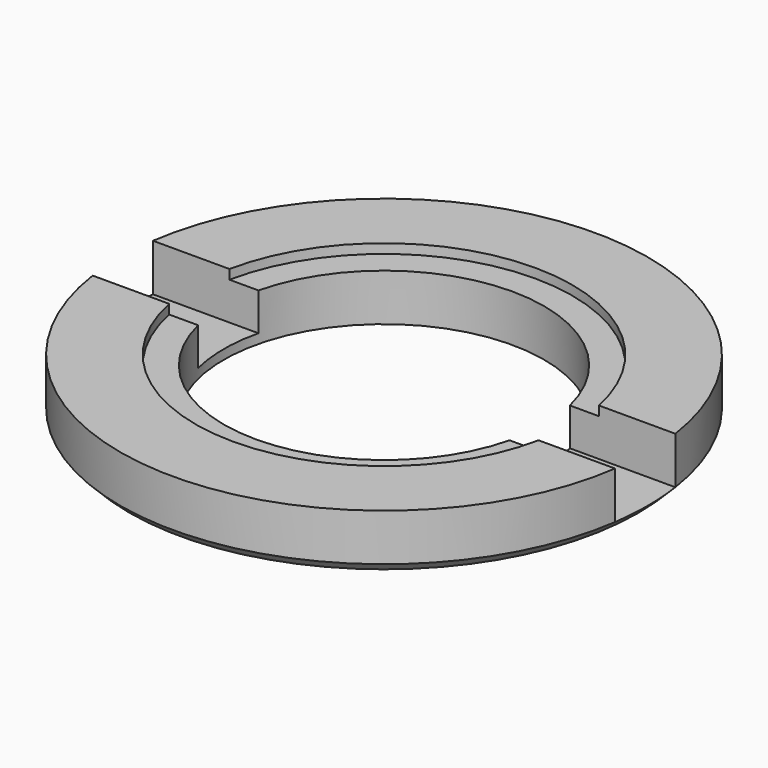
from build123d import *

# Parameters (mm, degrees)
F0_R     = 35.56
F1_DEPTH = 6.35
F2_R     = 35.56
F2_R_2   = 25.4
F3_DEPTH = 1.27
F4_SIZE  = 1.27
F5_R     = 21.59
F6_DEPTH = 25.4
F8_DEPTH = 6.35


with BuildPart() as f1:
    # F0 (on Top) → F1 (new body)
    with BuildSketch(Plane.XY):
        Circle(F0_R)
    extrude(amount=F1_DEPTH)

    # F2 (on face) → F3 (join)
    with BuildSketch(Plane.XY.offset(6.35)):
        Circle(F2_R)
        Circle(F2_R_2, mode=Mode.SUBTRACT)
    extrude(amount=F3_DEPTH)

    # F4
    f4_edges = [f1.edges().sort_by_distance(p)[0] for p in [
        (-35.56, 0, 0),
    ]]
    chamfer(f4_edges, length=F4_SIZE)

    # F5 (on face) → F6 (cut)
    with BuildSketch(Plane.XY.offset(6.35)):
        Circle(F5_R)
    extrude(amount=-F6_DEPTH, mode=Mode.SUBTRACT)

    # F7 (on face) → F8 (cut)
    with BuildSketch(Plane.XY.offset(7.62)):
        with BuildLine():
            ThreePointArc((-35.1952724098, 5.08), (-35.56, 0), (-35.1952724098, -5.08))
            Line((-35.1952724098, -5.08), (-24.8868157867, -5.08))
            ThreePointArc((-24.8868157867, -5.08), (-25.4, 0), (-24.8868157867, 5.08))
            Line((-24.8868157867, 5.08), (-35.1952724098, 5.08))
        make_face()
        with BuildLine():
            Line((-24.8868157867, -5.08), (24.8868157867, -5.08))
            ThreePointArc((24.8868157867, -5.08), (25.2713782863, -2.5529276349), (25.4, 0))
            ThreePointArc((25.4, 0), (25.2713782863, 2.5529276349), (24.8868157867, 5.08))
            Line((24.8868157867, 5.08), (-24.8868157867, 5.08))
            ThreePointArc((-24.8868157867, 5.08), (-25.4, 0), (-24.8868157867, -5.08))
        make_face()
        with BuildLine():
            Line((24.8868157867, -5.08), (35.1952724098, -5.08))
            ThreePointArc((35.1952724098, -5.08), (35.4687008988, -2.5465381509), (35.56, 0))
            ThreePointArc((35.56, 0), (35.4687008988, 2.5465381509), (35.1952724098, 5.08))
            Line((35.1952724098, 5.08), (24.8868157867, 5.08))
            ThreePointArc((24.8868157867, 5.08), (25.2713782863, 2.5529276349), (25.4, 0))
            ThreePointArc((25.4, 0), (25.2713782863, -2.5529276349), (24.8868157867, -5.08))
        make_face()
    extrude(amount=-F8_DEPTH, mode=Mode.SUBTRACT)


solid = f1.part
